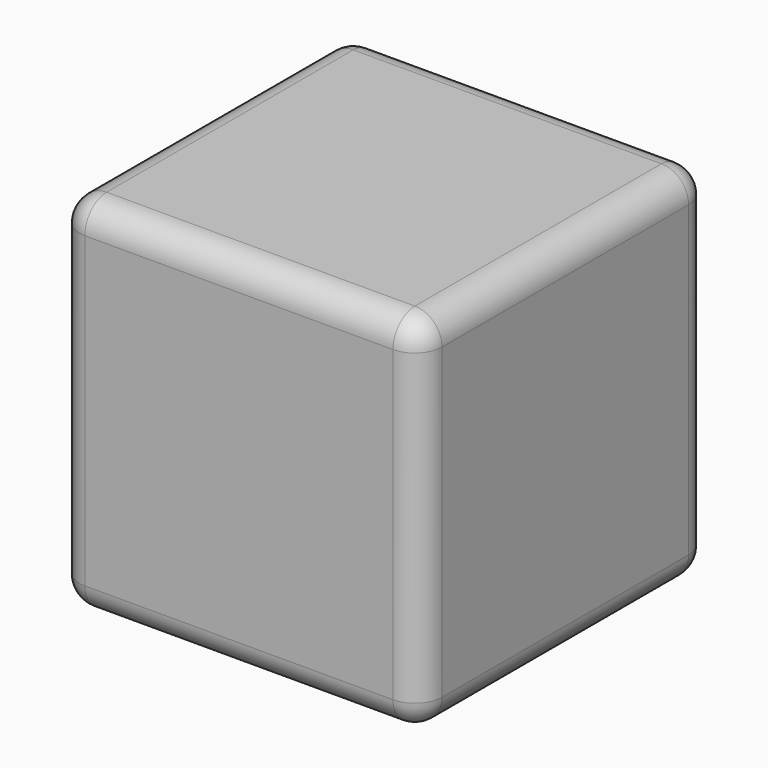
from build123d import *

# Parameters (mm, degrees)
F0_W     = 25.4
F0_H     = 25.4
F1_DEPTH = 25.4
F2_R     = 1.905
F4_DEPTH = 5.08


with BuildPart() as f1:
    # F0 (on Top) → F1 (new body)
    with BuildSketch(Plane.XY):
        with Locations((0, 0.155061)):
            Rectangle(F0_W, F0_H)
    extrude(amount=F1_DEPTH)

    # F2
    f2_edges = [f1.edges().sort_by_distance(p)[0] for p in [
        (0, 12.855061, 25.4),
        (-12.7, 0.155061, 25.4),
        (0, -12.544939, 25.4),
        (12.7, 0.155061, 25.4),
        (12.7, -12.544939, 12.7),
        (12.7, 12.855061, 12.7),
        (12.7, 0.155061, 0),
        (-12.7, -12.544939, 12.7),
        (0, -12.544939, 0),
        (-12.7, 12.855061, 12.7),
        (0, 12.855061, 0),
        (-12.7, 0.155061, 0),
    ]]
    fillet(f2_edges, radius=F2_R)

    # F3 (on face) → F4 (cut)
    with BuildSketch(Plane(origin=(0, 12.855061, 0), x_dir=(-1, 0, 0), z_dir=(0, 1, 0))):
        Polygon((0.008823, 8.3006), (3.814404, 10.50794), (3.805581, 14.907341), (-0.008823, 17.0994), (-3.814404, 14.89206), (-3.805581, 10.492659), align=None)
    extrude(amount=-F4_DEPTH, mode=Mode.SUBTRACT)


solid = f1.part
